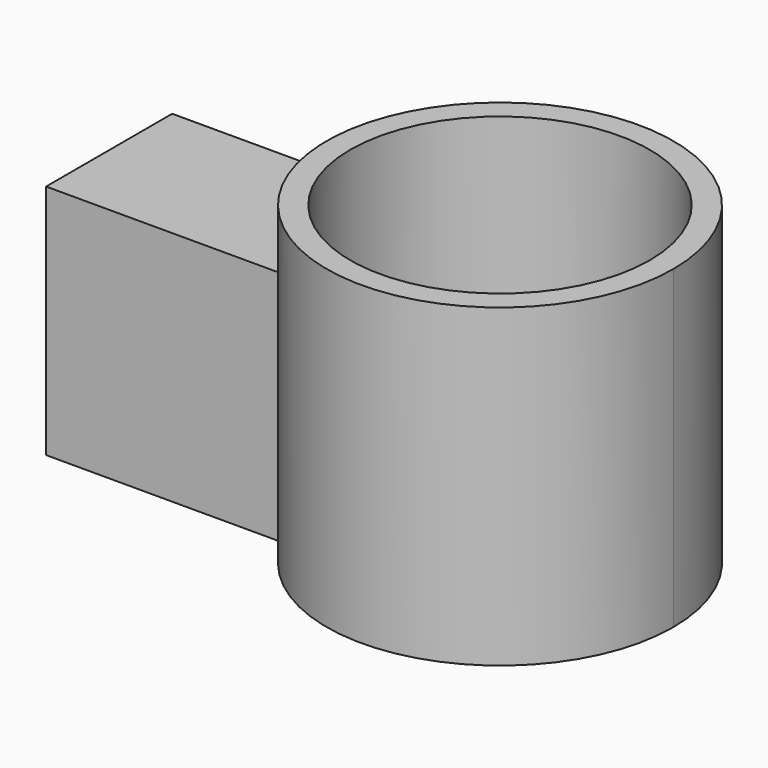
from build123d import *

# Parameters (mm, degrees)
F0_R     = 9.5
F1_DEPTH = 20
F2_DEPTH = 15


with BuildPart() as f1:
    # F0 (on Top) → F1 (new body)
    with BuildSketch(Plane.XY):
        with BuildLine():
            ThreePointArc((11, 0), (2.57123, 10.695269), (-9.797959, 5))
            ThreePointArc((-9.797959, 5), (-11, 0), (-9.797959, -5))
            ThreePointArc((-9.797959, -5), (2.57123, -10.695269), (11, 0))
        make_face()
        Circle(F0_R, mode=Mode.SUBTRACT)
    extrude(amount=F1_DEPTH)

    # F0 (on Top) → F2 (join)
    with BuildSketch(Plane.XY):
        with BuildLine():
            Line((-9.797959, 5), (-24.797959, 5))
            Line((-24.797959, 5), (-24.797959, -5))
            Line((-24.797959, -5), (-9.797959, -5))
            ThreePointArc((-9.797959, -5), (-11, 0), (-9.797959, 5))
        make_face()
    extrude(amount=F2_DEPTH)


solid = f1.part
